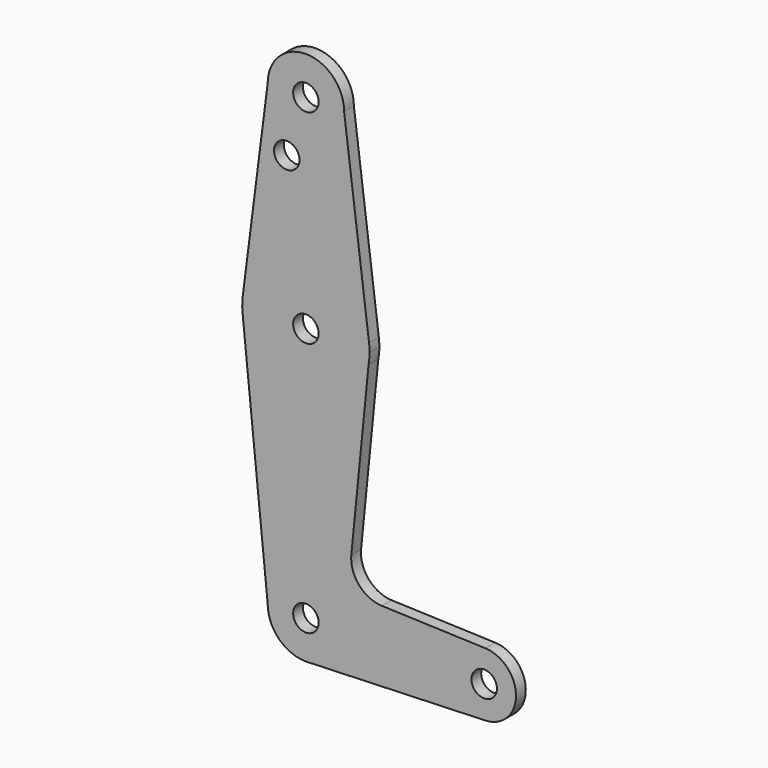
from build123d import *

# Parameters (mm, degrees)
F0_R     = 3.175
F1_DEPTH = 3.048


with BuildPart() as f1:
    # F0 (on Front) → F1 (new body)
    with BuildSketch(Plane.XZ):
        with BuildLine():
            ThreePointArc((0.6794904459, -9.5007324841), (6.9712901065, -6.4905114784), (9.525, 0))
            ThreePointArc((9.525, 0), (0, 9.525), (-9.525, 0))
            ThreePointArc((-9.525, 0), (-6.7351920908, -6.7351920908), (0, -9.525))
            Line((0, -9.525), (0.6794904459, -9.5007324841))
        make_face()
        Circle(F0_R, mode=Mode.SUBTRACT)
        with BuildLine():
            ThreePointArc((-9.525, 0), (0, 9.525), (9.525, 0))
            Line((9.525, 0), (36.5125, 0))
            ThreePointArc((36.5125, 0), (38.9380895153, 5.7116327839), (44.7324052746, 7.9324746146))
            Line((44.7324052746, 7.9324746146), (18.9545886454, 8.8501947128))
            ThreePointArc((18.9545886454, 8.8501947128), (13.2493900734, 11.5657466706), (11.3265132852, 17.58455536))
            Line((11.3265132852, 17.58455536), (15.6297172321, 60.7201503199))
            ThreePointArc((15.6297172321, 60.7201503199), (-0.5958184694, 47.6361850316), (-15.7942028036, 61.9003804205))
            Line((-15.7942028036, 61.9003804205), (-9.525, 0))
        make_face()
        with BuildLine():
            Line((36.5125, 0), (9.525, 0))
            ThreePointArc((9.525, 0), (6.9712901065, -6.4905114784), (0.6794904459, -9.5007324841))
            Line((0.6794904459, -9.5007324841), (44.45, -7.9375))
            ThreePointArc((44.45, -7.9375), (38.8373399243, -5.6126600757), (36.5125, 0))
        make_face()
        with BuildLine():
            ThreePointArc((44.7324052746, 7.9324746146), (38.9380895153, 5.7116327839), (36.5125, 0))
            ThreePointArc((36.5125, 0), (38.8373399243, -5.6126600757), (44.45, -7.9375))
            ThreePointArc((44.45, -7.9375), (50.0626600757, -5.6126600757), (52.3875, 0))
            ThreePointArc((52.3875, 0), (50.1616327839, 5.5119104847), (44.7324052746, 7.9324746146))
        make_face()
        with BuildLine():
            ThreePointArc((47.625, 0), (44.45, -3.175), (41.275, 0))
            ThreePointArc((41.275, 0), (44.45, 3.175), (47.625, 0))
        make_face(mode=Mode.SUBTRACT)
        with BuildLine():
            ThreePointArc((0, -9.525), (0.3399618281, -9.5189311877), (0.6794904459, -9.5007324841))
            Line((0.6794904459, -9.5007324841), (0, -9.525))
        make_face()
        with BuildLine():
            ThreePointArc((-15.7474569047, 65.5082893304), (-15.873667691, 63.7056672947), (-15.7942028036, 61.9003804205))
            ThreePointArc((-15.7942028036, 61.9003804205), (-0.5958184694, 47.6361850316), (15.6297172321, 60.7201503199))
            ThreePointArc((15.6297172321, 60.7201503199), (15.813560416, 62.104674959), (15.875, 63.5))
            ThreePointArc((15.875, 63.5), (15.8430821396, 64.5061676396), (15.7474569047, 65.5082893304))
            ThreePointArc((15.7474569047, 65.5082893304), (0, 79.375), (-15.7474569047, 65.5082893304))
        make_face()
        with Locations((0, 63.5)):
            Circle(F0_R, mode=Mode.SUBTRACT)
        with BuildLine():
            Line((-9.525, 114.3), (-15.7474569047, 65.5082893304))
            ThreePointArc((-15.7474569047, 65.5082893304), (0, 79.375), (15.7474569047, 65.5082893304))
            Line((15.7474569047, 65.5082893304), (9.525, 114.3))
            ThreePointArc((9.525, 114.3), (0, 104.775), (-9.525, 114.3))
        make_face()
        with Locations((-4.7625, 100.0252)):
            Circle(F0_R, mode=Mode.SUBTRACT)
        with BuildLine():
            ThreePointArc((9.525, 114.3), (0, 123.825), (-9.525, 114.3))
            ThreePointArc((-9.525, 114.3), (0, 104.775), (9.525, 114.3))
        make_face()
        with Locations((0, 114.3)):
            Circle(F0_R, mode=Mode.SUBTRACT)
    extrude(amount=F1_DEPTH)


solid = f1.part
